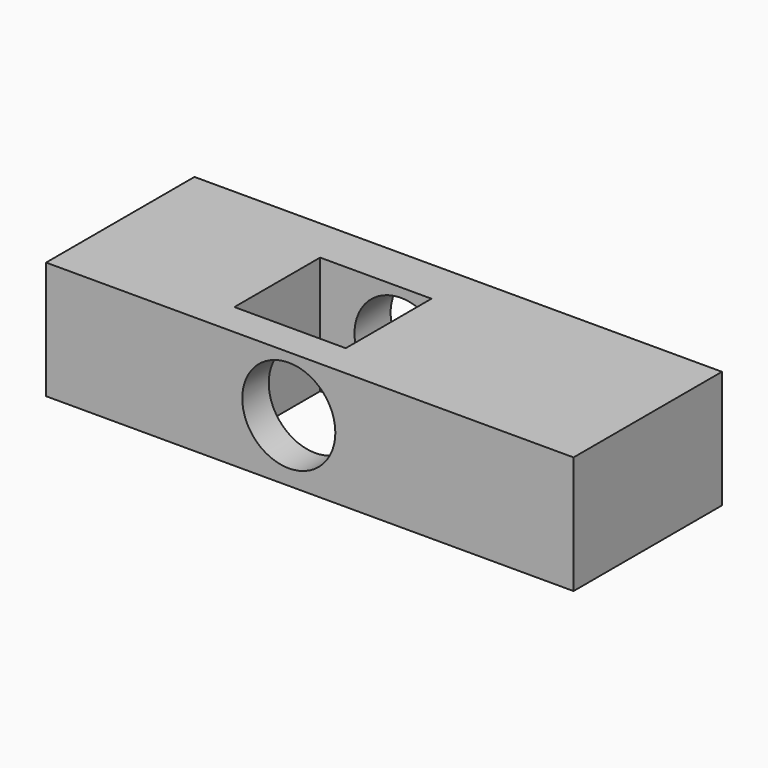
from build123d import *

# Parameters (mm, degrees)
F0_W          = 72.2392462194
F0_H          = 16.11712249
F1_DEPTH      = 25.4
F2_W          = 15.2537054382
F2_H          = 14.6780936047
F3_DEPTH      = 50.8
F3_DEPTH_BACK = 25.4
F5_R          = 6.3741022215
F6_DEPTH      = 25.401


with BuildPart() as f1:
    # F0 (on Front) → F1 (new body)
    with BuildSketch(Plane.XZ):
        with Locations((2.8780568391, -0.4317087587)):
            Rectangle(F0_W, F0_H)
    extrude(amount=F1_DEPTH)

    # F2 (on Top) → F3 (cut, two sides)
    with BuildSketch(Plane.XY) as f3_sk:
        with Locations((-3.4536684398, -13.5268704034)):
            Rectangle(F2_W, F2_H)
    extrude(amount=-F3_DEPTH, mode=Mode.SUBTRACT)
    extrude(f3_sk.sketch, amount=F3_DEPTH_BACK, mode=Mode.SUBTRACT)

    # F5 (on face) → F6 (cut, through all)
    with BuildSketch(Plane.XZ.offset(25.4)):
        Circle(F5_R)
    extrude(amount=-F6_DEPTH, mode=Mode.SUBTRACT)


solid = f1.part
